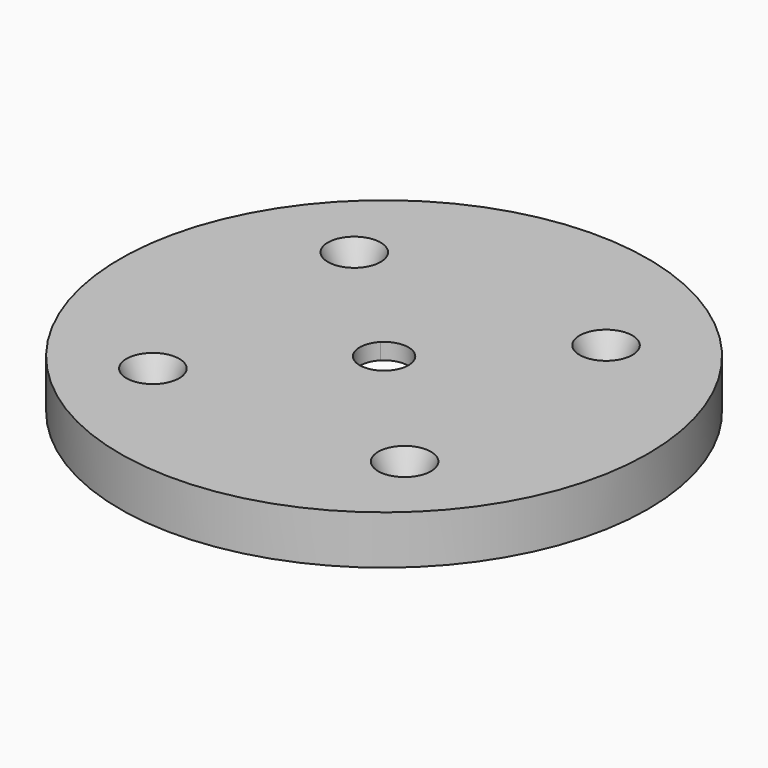
from build123d import *

# Parameters (mm, degrees)
F0_R           = 32.5
F0_R_2         = 11.25
F1_DEPTH       = 2
F2_DEPTH       = 2
F3_R           = 32.5
F4_DEPTH       = 2
F6_D           = 3
F6_DEPTH       = 12
F6_CSINK_D     = 6.5
F6_CSINK_ANGLE = 45
F6_TIP         = 0.9012909285


with BuildPart() as f1:
    # F0 (on Top) → F1 (new body)
    with BuildSketch(Plane.XY):
        Circle(F0_R)
        with BuildLine():
            Line((-21.25, 17.4553000547), (-21.25, 21.25))
            Line((-21.25, 21.25), (-17.4553000547, 21.25))
            ThreePointArc((-17.4553000547, 21.25), (0, 27.5), (17.4553000547, 21.25))
            Line((17.4553000547, 21.25), (21.25, 21.25))
            Line((21.25, 21.25), (21.25, 17.4553000547))
            ThreePointArc((21.25, 17.4553000547), (25.8903939715, 9.2702481089), (27.5, 0))
            ThreePointArc((27.5, 0), (25.8903939715, -9.2702481089), (21.25, -17.4553000547))
            Line((21.25, -17.4553000547), (21.25, -21.25))
            Line((21.25, -21.25), (17.4553000547, -21.25))
            ThreePointArc((17.4553000547, -21.25), (0, -27.5), (-17.4553000547, -21.25))
            Line((-17.4553000547, -21.25), (-21.25, -21.25))
            Line((-21.25, -21.25), (-21.25, -17.4553000547))
            ThreePointArc((-21.25, -17.4553000547), (-27.5, 0), (-21.25, 17.4553000547))
        make_face(mode=Mode.SUBTRACT)
        with BuildLine():
            Line((-17.4553000547, 21.25), (-21.25, 21.25))
            Line((-21.25, 21.25), (-21.25, 17.4553000547))
            ThreePointArc((-21.25, 17.4553000547), (-19.4454364826, 19.4454364826), (-17.4553000547, 21.25))
        make_face()
        with BuildLine():
            Line((21.25, 21.25), (17.4553000547, 21.25))
            ThreePointArc((17.4553000547, 21.25), (19.4454364826, 19.4454364826), (21.25, 17.4553000547))
            Line((21.25, 17.4553000547), (21.25, 21.25))
        make_face()
        with BuildLine():
            Line((21.25, -21.25), (21.25, -17.4553000547))
            ThreePointArc((21.25, -17.4553000547), (19.4454364826, -19.4454364826), (17.4553000547, -21.25))
            Line((17.4553000547, -21.25), (21.25, -21.25))
        make_face()
        with BuildLine():
            ThreePointArc((-17.4553000547, -21.25), (-19.4454364826, -19.4454364826), (-21.25, -17.4553000547))
            Line((-21.25, -17.4553000547), (-21.25, -21.25))
            Line((-21.25, -21.25), (-17.4553000547, -21.25))
        make_face()
        with BuildLine():
            Line((17.4553000547, -21.25), (-17.4553000547, -21.25))
            ThreePointArc((-17.4553000547, -21.25), (0, -27.5), (17.4553000547, -21.25))
        make_face()
        with BuildLine():
            ThreePointArc((27.5, 0), (25.8903939715, 9.2702481089), (21.25, 17.4553000547))
            Line((21.25, 17.4553000547), (21.25, -17.4553000547))
            ThreePointArc((21.25, -17.4553000547), (25.8903939715, -9.2702481089), (27.5, 0))
        make_face()
        with BuildLine():
            ThreePointArc((17.4553000547, 21.25), (0, 27.5), (-17.4553000547, 21.25))
            Line((-17.4553000547, 21.25), (17.4553000547, 21.25))
        make_face()
        with BuildLine():
            Line((-21.25, -17.4553000547), (-21.25, 17.4553000547))
            ThreePointArc((-21.25, 17.4553000547), (-27.5, 0), (-21.25, -17.4553000547))
        make_face()
        with BuildLine():
            Line((17.4553000547, 21.25), (-17.4553000547, 21.25))
            ThreePointArc((-17.4553000547, 21.25), (-19.4454364826, 19.4454364826), (-21.25, 17.4553000547))
            Line((-21.25, 17.4553000547), (-21.25, -17.4553000547))
            ThreePointArc((-21.25, -17.4553000547), (-19.4454364826, -19.4454364826), (-17.4553000547, -21.25))
            Line((-17.4553000547, -21.25), (17.4553000547, -21.25))
            ThreePointArc((17.4553000547, -21.25), (19.4454364826, -19.4454364826), (21.25, -17.4553000547))
            Line((21.25, -17.4553000547), (21.25, 17.4553000547))
            ThreePointArc((21.25, 17.4553000547), (19.4454364826, 19.4454364826), (17.4553000547, 21.25))
        make_face()
        Circle(F0_R_2, mode=Mode.SUBTRACT)
    extrude(amount=F1_DEPTH)

    # F0 (on Top) → F2 (join)
    with BuildSketch(Plane.XY):
        Circle(F0_R)
        with BuildLine():
            Line((-21.25, 17.4553000547), (-21.25, 21.25))
            Line((-21.25, 21.25), (-17.4553000547, 21.25))
            ThreePointArc((-17.4553000547, 21.25), (0, 27.5), (17.4553000547, 21.25))
            Line((17.4553000547, 21.25), (21.25, 21.25))
            Line((21.25, 21.25), (21.25, 17.4553000547))
            ThreePointArc((21.25, 17.4553000547), (25.8903939715, 9.2702481089), (27.5, 0))
            ThreePointArc((27.5, 0), (25.8903939715, -9.2702481089), (21.25, -17.4553000547))
            Line((21.25, -17.4553000547), (21.25, -21.25))
            Line((21.25, -21.25), (17.4553000547, -21.25))
            ThreePointArc((17.4553000547, -21.25), (0, -27.5), (-17.4553000547, -21.25))
            Line((-17.4553000547, -21.25), (-21.25, -21.25))
            Line((-21.25, -21.25), (-21.25, -17.4553000547))
            ThreePointArc((-21.25, -17.4553000547), (-27.5, 0), (-21.25, 17.4553000547))
        make_face(mode=Mode.SUBTRACT)
        with BuildLine():
            Line((-21.25, -17.4553000547), (-21.25, 17.4553000547))
            ThreePointArc((-21.25, 17.4553000547), (-27.5, 0), (-21.25, -17.4553000547))
        make_face()
        with BuildLine():
            Line((17.4553000547, -21.25), (-17.4553000547, -21.25))
            ThreePointArc((-17.4553000547, -21.25), (0, -27.5), (17.4553000547, -21.25))
        make_face()
        with BuildLine():
            ThreePointArc((27.5, 0), (25.8903939715, 9.2702481089), (21.25, 17.4553000547))
            Line((21.25, 17.4553000547), (21.25, -17.4553000547))
            ThreePointArc((21.25, -17.4553000547), (25.8903939715, -9.2702481089), (27.5, 0))
        make_face()
        with BuildLine():
            ThreePointArc((17.4553000547, 21.25), (0, 27.5), (-17.4553000547, 21.25))
            Line((-17.4553000547, 21.25), (17.4553000547, 21.25))
        make_face()
        with BuildLine():
            ThreePointArc((-17.4553000547, -21.25), (-19.4454364826, -19.4454364826), (-21.25, -17.4553000547))
            Line((-21.25, -17.4553000547), (-21.25, -21.25))
            Line((-21.25, -21.25), (-17.4553000547, -21.25))
        make_face()
        with BuildLine():
            Line((21.25, -21.25), (21.25, -17.4553000547))
            ThreePointArc((21.25, -17.4553000547), (19.4454364826, -19.4454364826), (17.4553000547, -21.25))
            Line((17.4553000547, -21.25), (21.25, -21.25))
        make_face()
        with BuildLine():
            Line((21.25, 21.25), (17.4553000547, 21.25))
            ThreePointArc((17.4553000547, 21.25), (19.4454364826, 19.4454364826), (21.25, 17.4553000547))
            Line((21.25, 17.4553000547), (21.25, 21.25))
        make_face()
        with BuildLine():
            Line((-17.4553000547, 21.25), (-21.25, 21.25))
            Line((-21.25, 21.25), (-21.25, 17.4553000547))
            ThreePointArc((-21.25, 17.4553000547), (-19.4454364826, 19.4454364826), (-17.4553000547, 21.25))
        make_face()
    extrude(amount=-F2_DEPTH)

    # F3 (on face) → F4 (join)
    with BuildSketch(Plane.XY.offset(2)):
        Circle(F3_R)
        with BuildLine():
            ThreePointArc((-7.9549512883, 7.9549512883), (0, 11.25), (7.9549512883, 7.9549512883))
            ThreePointArc((7.9549512883, 7.9549512883), (10.3936447408, 4.3051886141), (11.25, 0))
            ThreePointArc((11.25, 0), (10.3936447408, -4.3051886141), (7.9549512883, -7.9549512883))
            ThreePointArc((7.9549512883, -7.9549512883), (0, -11.25), (-7.9549512883, -7.9549512883))
            ThreePointArc((-7.9549512883, -7.9549512883), (-11.25, 0), (-7.9549512883, 7.9549512883))
        make_face(mode=Mode.SUBTRACT)
        with BuildLine():
            ThreePointArc((-2.1213203436, 2.1213203436), (0, 3), (2.1213203436, 2.1213203436))
            Line((2.1213203436, 2.1213203436), (7.9549512883, 7.9549512883))
            ThreePointArc((7.9549512883, 7.9549512883), (0, 11.25), (-7.9549512883, 7.9549512883))
            Line((-7.9549512883, 7.9549512883), (-2.1213203436, 2.1213203436))
        make_face()
        with BuildLine():
            ThreePointArc((-2.1213203436, -2.1213203436), (-3, 0), (-2.1213203436, 2.1213203436))
            Line((-2.1213203436, 2.1213203436), (-7.9549512883, 7.9549512883))
            ThreePointArc((-7.9549512883, 7.9549512883), (-11.25, 0), (-7.9549512883, -7.9549512883))
            Line((-7.9549512883, -7.9549512883), (-2.1213203436, -2.1213203436))
        make_face()
        with BuildLine():
            Line((7.9549512883, -7.9549512883), (2.1213203436, -2.1213203436))
            ThreePointArc((2.1213203436, -2.1213203436), (0, -3), (-2.1213203436, -2.1213203436))
            Line((-2.1213203436, -2.1213203436), (-7.9549512883, -7.9549512883))
            ThreePointArc((-7.9549512883, -7.9549512883), (0, -11.25), (7.9549512883, -7.9549512883))
        make_face()
        with BuildLine():
            ThreePointArc((2.1213203436, 2.1213203436), (2.7716385975, 1.1480502971), (3, 0))
            ThreePointArc((3, 0), (2.7716385975, -1.1480502971), (2.1213203436, -2.1213203436))
            Line((2.1213203436, -2.1213203436), (7.9549512883, -7.9549512883))
            ThreePointArc((7.9549512883, -7.9549512883), (10.3936447408, -4.3051886141), (11.25, 0))
            ThreePointArc((11.25, 0), (10.3936447408, 4.3051886141), (7.9549512883, 7.9549512883))
            Line((7.9549512883, 7.9549512883), (2.1213203436, 2.1213203436))
        make_face()
    extrude(amount=F4_DEPTH)

    # F6
    with Locations(Plane.XY.offset(4)):
        with Locations((-15.7731351997, 15.1271263808), (-15.7731351997, -15.8728736192), (15.2268648003, -15.8728736192), (15.2268648003, 15.1271263808)):
            CounterSinkHole(F6_D / 2, F6_CSINK_D / 2, depth=F6_DEPTH, counter_sink_angle=F6_CSINK_ANGLE)
            with Locations((0, 0, -(F6_DEPTH + F6_TIP / 2))):  # 118° drill point
                Cone(0, F6_D / 2, F6_TIP, mode=Mode.SUBTRACT)


solid = f1.part
